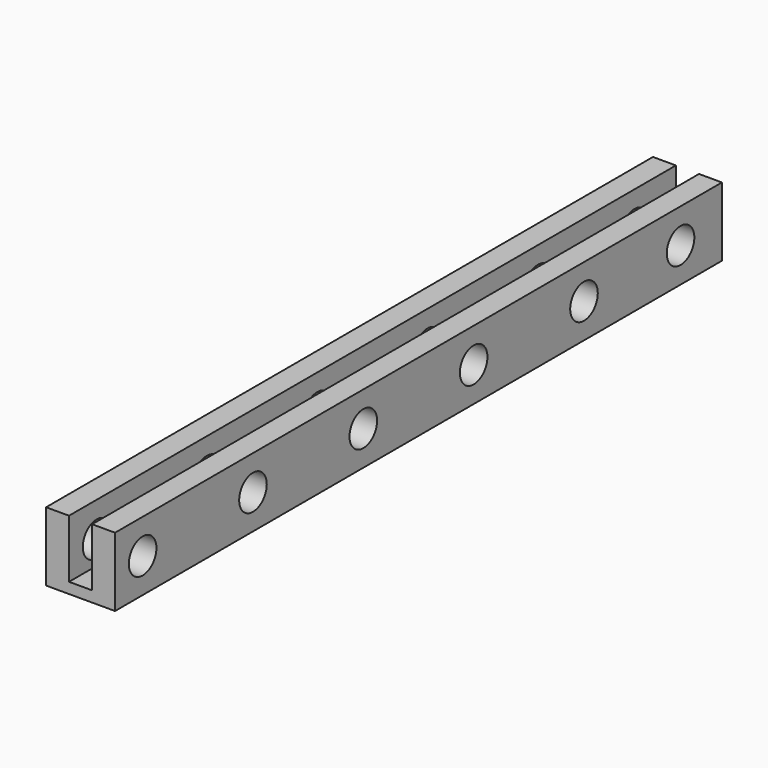
from build123d import *

# Parameters (mm, degrees)
F1_DEPTH = 88
F2_R     = 2
F3_DEPTH = 8.1


with BuildPart() as f1:
    # F0 (on Front) → F1 (new body)
    with BuildSketch(Plane.XZ):
        Polygon((-1.34, 4), (-4, 4), (-4, -4), (4, -4), (4, 4), (1.34, 4), (1.34, -2.75), (-1.34, -2.75), align=None)
    extrude(amount=F1_DEPTH)

    # F2 (on face) → F3 (cut)
    with BuildSketch(Plane.YZ.offset(4)):
        with Locations((-84, 0)):
            Circle(F2_R)
        with Locations((-68, 0)):
            Circle(F2_R)
        with Locations((-52, 0)):
            Circle(F2_R)
        with Locations((-36, 0)):
            Circle(F2_R)
        with Locations((-20, 0)):
            Circle(F2_R)
        with Locations((-6, 0)):
            Circle(F2_R)
    extrude(amount=-F3_DEPTH, mode=Mode.SUBTRACT)


solid = f1.part
